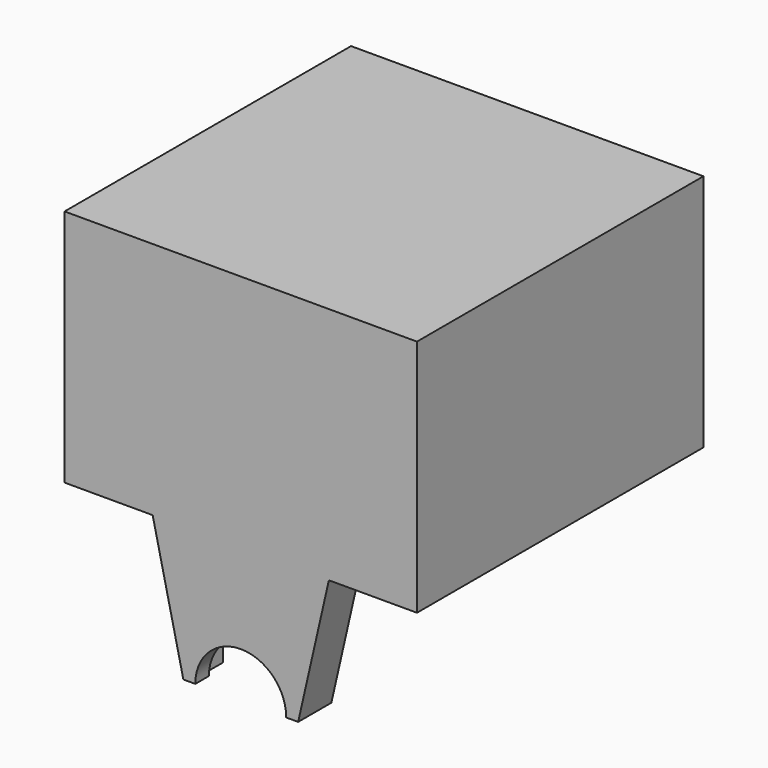
from build123d import *

# Parameters (mm, degrees)
SKETCH009_W     = 31
SKETCH009_H     = 31.5
PAD001_DEPTH    = 21
SKETCH010_W     = 18
SKETCH010_H     = 6
POCKET007_DEPTH = 19.4
PAD002_DEPTH    = 3.65
SKETCH012_W     = 9
SKETCH012_H     = 9
POCKET008_DEPTH = 2.15


with BuildPart() as part:
    # Sketch009 → Pad001 (new body)
    with BuildSketch(Plane.XY):
        with Locations((0, 9.25)):
            Rectangle(SKETCH009_W, SKETCH009_H)
    extrude(amount=PAD001_DEPTH)

    # Sketch010 → Pocket007 (cut)
    with BuildSketch(Plane.XY):
        Polygon((-7.9, -2.85), (-7.9, -1), (-10.5, -1), (-10.5, -2.85), (-13.2, -2.85), (-13.2, -0.65), (-13.7, -0.65), (-13.7, 0.65), (-13.2, 0.65), (-13.2, 23.45), (13.2, 23.45), (13.2, 0.65), (13.7, 0.65), (13.7, -0.65), (13.2, -0.65), (13.2, -2.85), (10.5, -2.85), (10.5, -1), (7.9, -1), (7.9, -2.85), align=None)
        with Locations((0, 7.45)):
            Rectangle(SKETCH010_W, SKETCH010_H, mode=Mode.SUBTRACT)
    extrude(amount=POCKET007_DEPTH, mode=Mode.SUBTRACT)

    # Sketch011 → Pad002 (join)
    with BuildSketch(Plane.XZ.offset(2.85)):
        with BuildLine():
            Line((-7.75, 0), (-5.05, -11.85))
            Line((-5.05, -11.85), (-4, -11.85))
            ThreePointArc((4, -11.85), (0, -7.85), (-4, -11.85))
            Line((4, -11.85), (5.05, -11.85))
            Line((5.05, -11.85), (7.75, 0))
            Line((7.75, 0), (-7.75, 0))
        make_face()
    extrude(amount=PAD002_DEPTH)

    # Sketch012 → Pocket008 (cut)
    with BuildSketch(Plane.XZ.offset(2.85)):
        with Locations((0, -12)):
            Rectangle(SKETCH012_W, SKETCH012_H)
    extrude(amount=POCKET008_DEPTH, mode=Mode.SUBTRACT)


with BuildPart() as part_1:
    # Body001 placement: moved
    add(part.part.moved(Location((0, 0, 12))))


solid = part_1.part
